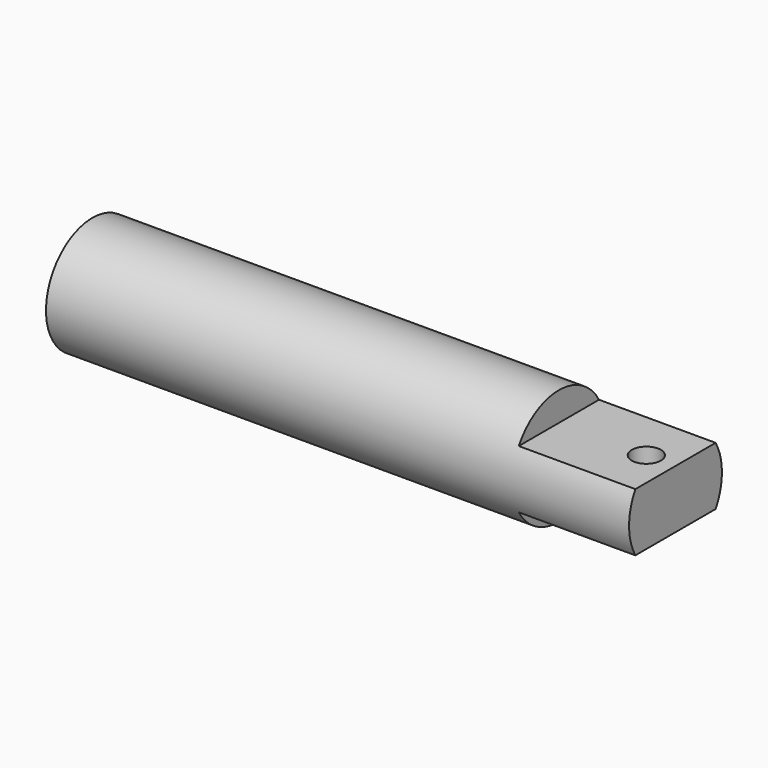
from build123d import *

# Parameters (mm, degrees)
F0_R     = 12.6365
F1_DEPTH = 63.5
F3_DEPTH = 12.7
F4_R     = 3.175
F5_DEPTH = 12.7


with BuildPart() as f1:
    # F0 (on Right) → F1 (new body, symmetric)
    with BuildSketch(Plane.YZ):
        Circle(F0_R)
    extrude(amount=F1_DEPTH, both=True)

    # F2 (on Front) → F3 (cut, symmetric)
    with BuildSketch(Plane.XZ):
        Polygon((68.58, 12.7), (38.1, 12.7), (38.1, 6.35), (63.5, 6.35), (63.5, -6.35), (38.1, -6.35), (38.1, -12.7), (68.58, -12.7), align=None)
    extrude(amount=F3_DEPTH, both=True, mode=Mode.SUBTRACT)

    # F4 (on face) → F5 (cut, through all)
    with BuildSketch(Plane.XY.offset(6.35)):
        with Locations((57.15, 0)):
            Circle(F4_R)
    extrude(amount=-F5_DEPTH, mode=Mode.SUBTRACT)

    # F6 (on Top) → F7 (revolve, cut)
    with BuildSketch(Plane.XY):
        with BuildLine():
            Line((-63.5, 0), (-57.15, 0))
            ThreePointArc((-57.15, 0), (-58.851477, 6.35), (-63.5, 10.998523))
            Line((-63.5, 10.998523), (-63.5, 0))
        make_face()
    revolve(axis=Axis((-34.925, 0, 0), (-1, 0, 0)), mode=Mode.SUBTRACT)


solid = f1.part
